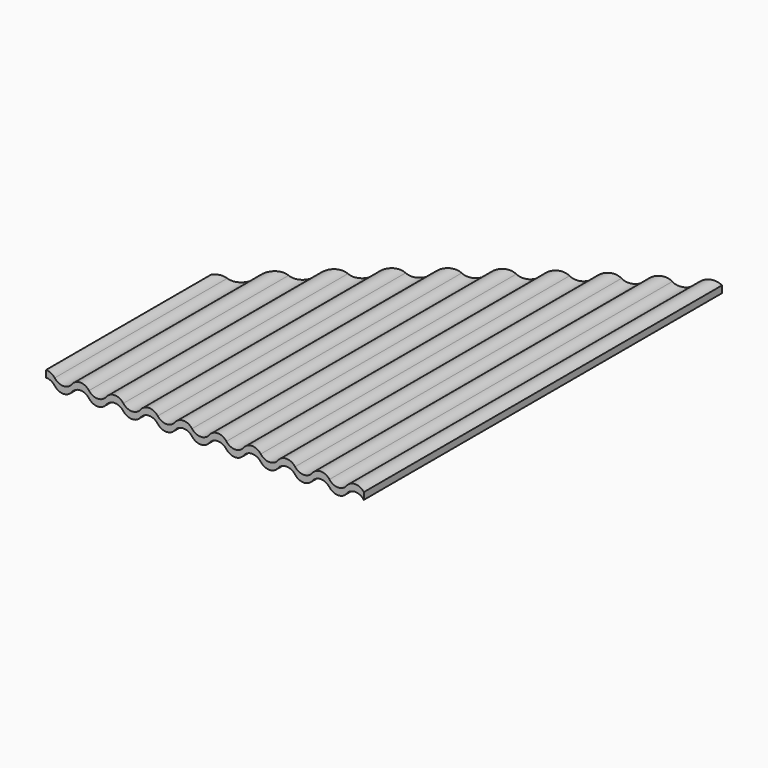
from build123d import *

# Parameters (mm, degrees)
F1_DEPTH = 70
F3_START = -25
F3_DEPTH = 50


with BuildPart() as f1:
    # F0 (on Front) → F1 (new body)
    with BuildSketch(Plane.XZ):
        with BuildLine():
            ThreePointArc((-21, -0.4), (-20, 0.1), (-19, -0.4))
            ThreePointArc((-19, -0.4), (-18, -0.9), (-17, -0.4))
            ThreePointArc((-17, -0.4), (-16, 0.1), (-15, -0.4))
            ThreePointArc((-15, -0.4), (-14, -0.9), (-13, -0.4))
            ThreePointArc((-13, -0.4), (-12, 0.1), (-11, -0.4))
            ThreePointArc((-11, -0.4), (-10, -0.9), (-9, -0.4))
            ThreePointArc((-9, -0.4), (-8, 0.1), (-7, -0.4))
            ThreePointArc((-7, -0.4), (-6, -0.9), (-5, -0.4))
            ThreePointArc((-5, -0.4), (-4, 0.1), (-3, -0.4))
            ThreePointArc((-3, -0.4), (-2, -0.9), (-1, -0.4))
            ThreePointArc((-1, -0.4), (0, 0.1), (1, -0.4))
            ThreePointArc((1, -0.4), (2, -0.9), (3, -0.4))
            ThreePointArc((3, -0.4), (4, 0.1), (5, -0.4))
            ThreePointArc((5, -0.4), (6, -0.9), (7, -0.4))
            ThreePointArc((7, -0.4), (8, 0.1), (9, -0.4))
            ThreePointArc((9, -0.4), (10, -0.9), (11, -0.4))
            ThreePointArc((11, -0.4), (12, 0.1), (13, -0.4))
            ThreePointArc((13, -0.4), (14, -0.9), (15, -0.4))
            ThreePointArc((15, -0.4), (16, 0.1), (17, -0.4))
            ThreePointArc((17, -0.4), (18, -0.9), (19, -0.4))
            ThreePointArc((19, -0.4), (20, 0.1), (21, -0.4))
            ThreePointArc((21, -0.4), (22, -0.9), (23, -0.4))
            ThreePointArc((23, -0.4), (24, 0.1), (25, -0.4))
            Line((25, -0.4), (25, 0.4))
            ThreePointArc((25, 0.4), (24, 0.9), (23, 0.4))
            ThreePointArc((23, 0.4), (22, -0.1), (21, 0.4))
            ThreePointArc((21, 0.4), (20, 0.9), (19, 0.4))
            ThreePointArc((19, 0.4), (18, -0.1), (17, 0.4))
            ThreePointArc((17, 0.4), (16, 0.9), (15, 0.4))
            ThreePointArc((15, 0.4), (14, -0.1), (13, 0.4))
            ThreePointArc((13, 0.4), (12, 0.9), (11, 0.4))
            ThreePointArc((11, 0.4), (10, -0.1), (9, 0.4))
            ThreePointArc((9, 0.4), (8, 0.9), (7, 0.4))
            ThreePointArc((7, 0.4), (6, -0.1), (5, 0.4))
            ThreePointArc((5, 0.4), (4, 0.9), (3, 0.4))
            ThreePointArc((3, 0.4), (2, -0.1), (1, 0.4))
            ThreePointArc((1, 0.4), (0, 0.9), (-1, 0.4))
            ThreePointArc((-1, 0.4), (-2, -0.1), (-3, 0.4))
            ThreePointArc((-3, 0.4), (-4, 0.9), (-5, 0.4))
            ThreePointArc((-5, 0.4), (-6, -0.1), (-7, 0.4))
            ThreePointArc((-7, 0.4), (-8, 0.9), (-9, 0.4))
            ThreePointArc((-9, 0.4), (-10, -0.1), (-11, 0.4))
            ThreePointArc((-11, 0.4), (-12, 0.9), (-13, 0.4))
            ThreePointArc((-13, 0.4), (-14, -0.1), (-15, 0.4))
            ThreePointArc((-15, 0.4), (-16, 0.9), (-17, 0.4))
            ThreePointArc((-17, 0.4), (-18, -0.1), (-19, 0.4))
            ThreePointArc((-19, 0.4), (-20, 0.9), (-21, 0.4))
            ThreePointArc((-21, 0.4), (-22, -0.1), (-23, 0.4))
            ThreePointArc((-23, 0.4), (-24, 0.9), (-25, 0.4))
            Line((-25, 0.4), (-25, -0.4))
            ThreePointArc((-25, -0.4), (-24, 0.1), (-23, -0.4))
            ThreePointArc((-23, -0.4), (-22, -0.9), (-21, -0.4))
        make_face()
    extrude(amount=F1_DEPTH)

    # F2 (on Top) → F3 (intersect)
    with BuildSketch(Plane.XY.offset(F3_START)):
        with BuildLine():
            ThreePointArc((-12, -254.0961094374), (152.1248608016, -289.1042774324), (246, -150))
            ThreePointArc((246, -150), (152.1248608016, -10.8957225676), (-12, -45.9038905626))
            Line((-12, -45.9038905626), (-12, -150))
            Line((-12, -150), (-12, -254.0961094374))
        make_face()
    extrude(amount=F3_DEPTH, mode=Mode.INTERSECT)


solid = f1.part
